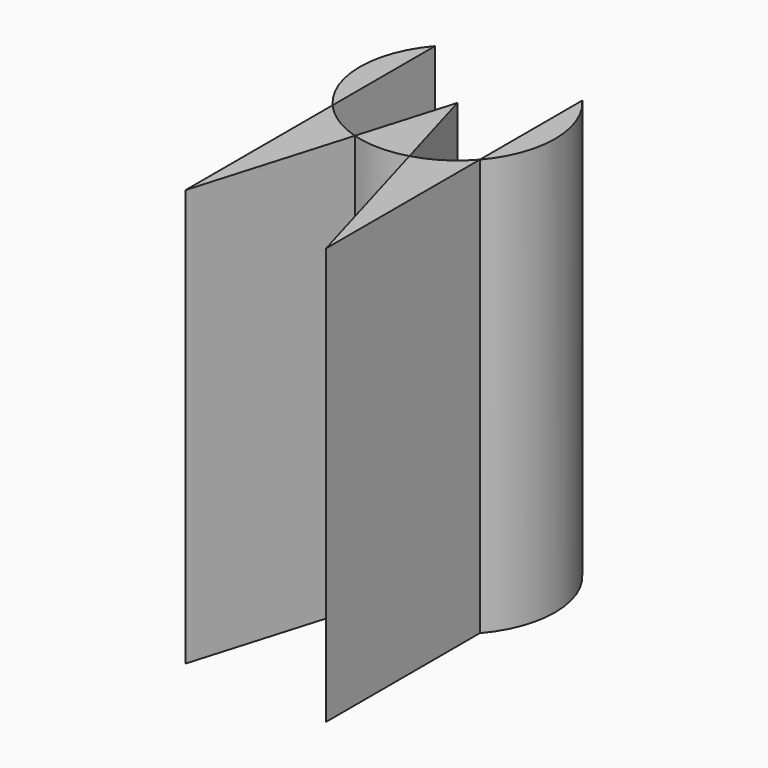
from build123d import *

# Parameters (mm, degrees)
F1_DEPTH = 40.005


with BuildPart() as f1:
    # F0 (on Top) → F1 (new body, symmetric)
    with BuildSketch(Plane.XY):
        with BuildLine():
            Line((0, 39.865449), (0, 15.287552))
            ThreePointArc((0, 15.287552), (4.596039, 27.576501), (0, 39.865449))
        make_face()
        with BuildLine():
            ThreePointArc((0, 15.287552), (-4.066409, 11.783822), (-8.95967, 9.577513))
            Line((-8.95967, 9.577513), (0, -21.605983))
            Line((0, -21.605983), (0, 15.287552))
        make_face()
        with BuildLine():
            Line((-14.131155, 27.576501), (-19.467581, 9.625725))
            ThreePointArc((-19.467581, 9.625725), (-14.217076, 8.849504), (-8.95967, 9.577513))
            Line((-8.95967, 9.577513), (-14.131155, 27.576501))
        make_face()
        with BuildLine():
            ThreePointArc((-19.467581, 9.625725), (-24.268253, 11.830166), (-28.26231, 15.287552))
            Line((-28.26231, 15.287552), (-28.26231, -19.958153))
            Line((-28.26231, -19.958153), (-19.467581, 9.625725))
        make_face()
        with BuildLine():
            Line((-28.26231, 15.287552), (-28.26231, 39.865449))
            ThreePointArc((-28.26231, 39.865449), (-32.858349, 27.576501), (-28.26231, 15.287552))
        make_face()
    extrude(amount=F1_DEPTH, both=True)


solid = f1.part
